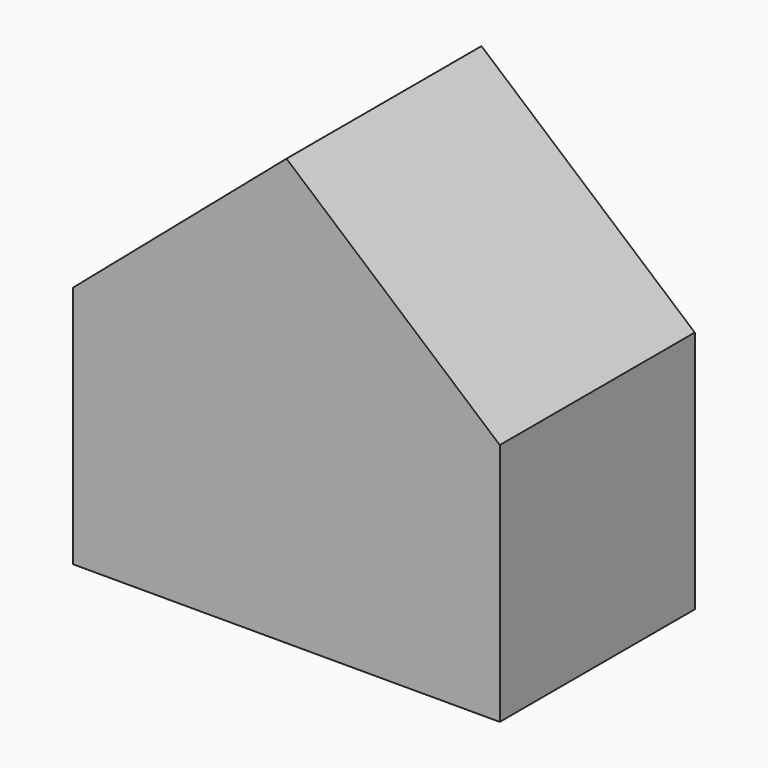
from build123d import *

# Parameters (mm, degrees)
F0_W     = 177.8
F0_H     = 101.6
F1_DEPTH = 101.6
F3_DEPTH = 101.6


with BuildPart() as f1:
    # F0 (on Front) → F1 (new body)
    with BuildSketch(Plane.XZ):
        with Locations((0, -50.8)):
            Rectangle(F0_W, F0_H)
    extrude(amount=F1_DEPTH)

    # F2 (on face) → F3 (join, through all)
    with BuildSketch(Plane(origin=(0, 0, 0), x_dir=(-1, 0, 0), z_dir=(0, 1, 0))):
        Polygon((-88.9, 0), (88.9, 0), (0, 76.2), align=None)
    extrude(amount=-F3_DEPTH)


solid = f1.part
